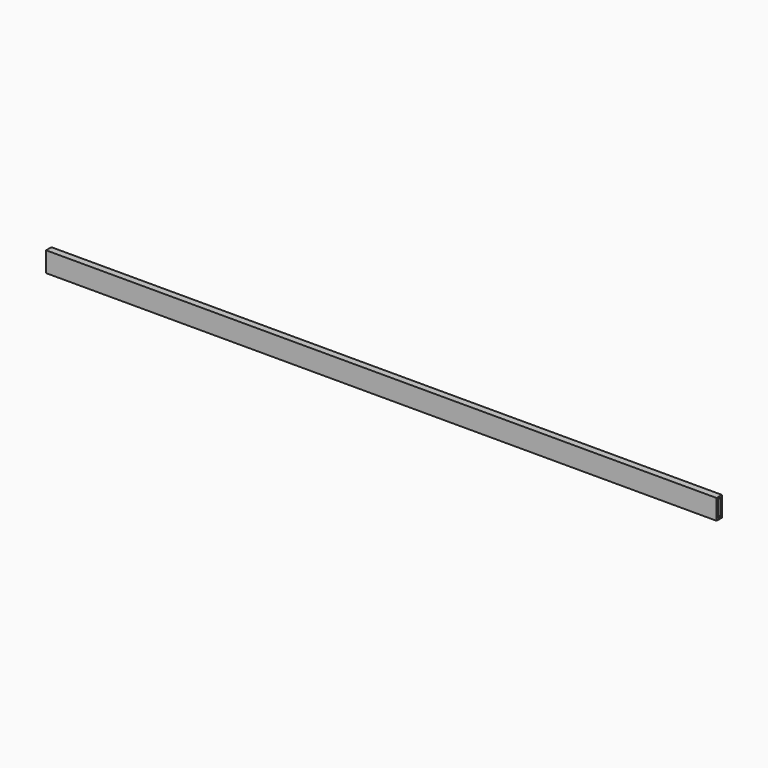
from build123d import *

# Parameters (mm, degrees)
F0_W     = 2540
F0_H     = 25.4
F1_DEPTH = 76.2
F2_T     = -6.35


with BuildPart() as f1:
    # F0 (on Top) → F1 (new body)
    with BuildSketch(Plane.XY):
        Rectangle(F0_W, F0_H)
    extrude(amount=F1_DEPTH)

    # F2
    f2_openings = [f1.faces().sort_by_distance(p)[0] for p in [
        (1270, 0, 38.1),
        (-1270, 0, 38.1),
    ]]
    offset(amount=F2_T, openings=f2_openings)


solid = f1.part
